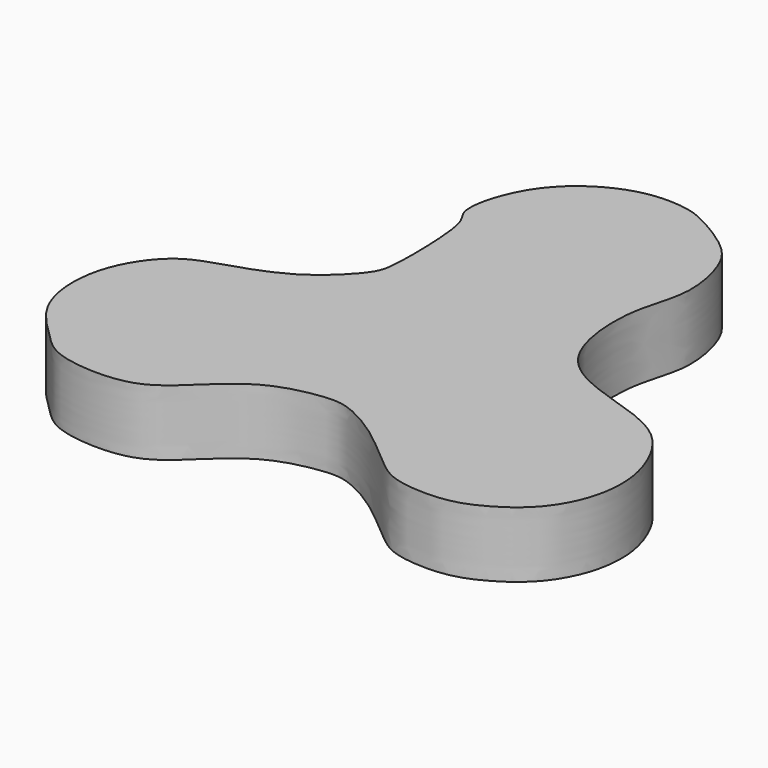
from build123d import *

# Parameters (mm, degrees)
F1_DEPTH = 9


with BuildPart() as f1:
    # F0 (on Top) → F1 (new body)
    with BuildSketch(Plane.XY):
        with BuildLine():
            add(Edge.make_bspline(
                [(-15.3630385175, 26.2395441532), (-15.6513213262, 28.1002207503), (-13.5623826764, 36.0404727808), (-4.3313351178, 41.7011474343), (2.3800287233, 41.5009043881), (5.512247164, 40.4564320539), (11.2973607678, 37.0080355746), (13.9800761582, 33.3267390943), (15.614028936, 25.6475435715), (12.4970393457, 19.024118392), (13.5899407596, 6.0046668236), (22.9691317721, 1.8778105192), (33.1511463426, -0.6448419765), (37.018048939, -8.7578394042), (37.40653874, -13.6114753683), (36.6036434359, -18.0472963965), (33.9205110873, -22.9016591972), (29.1794569024, -26.2110192802), (24.6556823269, -27.9760997262), (17.9526136752, -27.6473936541), (14.5778144312, -25.481206504), (8.9770893265, -20.2683615653), (3.306414162, -17.1055235144), (-0.0337188444, -16.879116456), (-7.5829237274, -18.3261094168), (-13.3333887096, -24.2094037507), (-18.349293856, -28.4125335083), (-28.722119202, -27.7744159623), (-31.9949644411, -24.2861586526), (-37.8586192373, -18.9195675275), (-38.2580408198, -8.8580024217), (-33.3961690123, -1.7600068608), (-28.2307196765, 0.0690535859), (-19.88259045, 2.5665521101), (-14.0983981642, 8.4890280086), (-13.340553351, 11.2564682018), (-13.3931051992, 18.9364314693), (-14.0049628992, 24.1782389053), (-15.214672747, 25.2819403392), (-15.3630385175, 26.2395441532)],
                knots=[0, 0, 0, 0, 0.0318022213, 0.066594981, 0.092950619, 0.1123073708, 0.139118614, 0.1620112451, 0.1903185943, 0.2194108285, 0.2554665619, 0.2880714918, 0.3219963912, 0.3523233822, 0.3755038419, 0.3975939015, 0.4223197937, 0.4474520731, 0.4710336217, 0.4976172949, 0.5188225832, 0.5482661107, 0.5749539063, 0.5939909061, 0.6225681523, 0.6528857826, 0.6799115244, 0.7123734304, 0.7354215483, 0.7642670124, 0.796996966, 0.8269038814, 0.8512811868, 0.882844494, 0.9123815954, 0.9301580792, 0.9595058345, 0.9836328739, 1, 1, 1, 1], degree=3))
        make_face()
    extrude(amount=F1_DEPTH)


solid = f1.part
